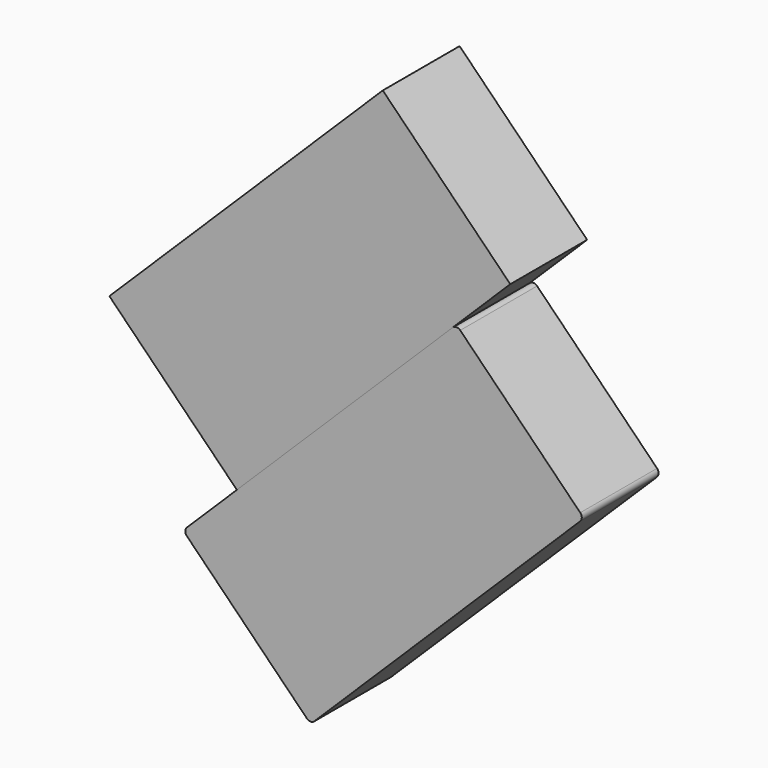
from build123d import *

# Parameters (mm, degrees)
F3_DEPTH = 14.2875
F4_R     = 0.79375
F6_DEPTH = 14.2875


with BuildPart() as f3:
    # F2 (on Front) → F3 (new body)
    with BuildSketch(Plane.XZ):
        Polygon((242.189038, 114.173276), (223.225822, 133.3754), (182.5625, 93.218), (201.525717, 74.015876), align=None)
    extrude(amount=F3_DEPTH)

    # F4
    f4_edges = [f3.edges().sort_by_distance(p)[0] for p in [
        (201.525717, -7.14375, 74.015876),
        (182.5625, -7.14375, 93.218),
        (242.189038, -7.14375, 114.173276),
        (223.225822, -7.14375, 133.3754),
    ]]
    fillet(f4_edges, radius=F4_R)


with BuildPart() as f6:
    # F5 (on Front) → F6 (new body)
    with BuildSketch(Plane.XZ):
        Polygon((231.225012, 141.275067), (212.261796, 160.477191), (171.598474, 120.319791), (190.561691, 101.117667), align=None)
    extrude(amount=F6_DEPTH)


solid = Compound([f3.part, f6.part])
